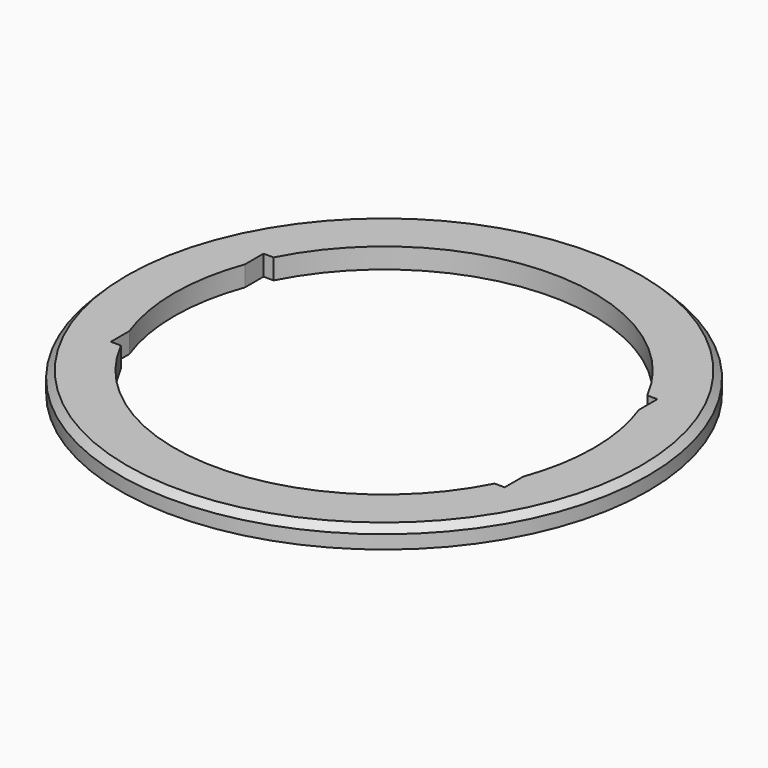
from build123d import *

# Parameters (mm, degrees)
BOX878_W                     = 2.2
BOX878_H                     = 20
BOX878_DEPTH                 = 28.2
BOX877_W                     = 2.2
BOX877_H                     = 20
BOX877_DEPTH                 = 28.2
COMPOUND1139_PLACEMENT_ANGLE = 90
CYLINDER2555_R               = 31
CYLINDER2555_DEPTH           = 34
CYLINDER2556_R               = 39
CYLINDER2556_DEPTH           = 3
CHAMFER090_SIZE              = 1


with BuildPart() as krychle877:
    # Box878 → Box878 (new body)
    with BuildSketch(Plane(origin=(43.9, -111, -4.1), x_dir=(1, 0, 0), z_dir=(0, 0, 1))):
        with Locations((1.1, 10)):
            Rectangle(BOX878_W, BOX878_H)
    extrude(amount=BOX878_DEPTH)


with BuildPart() as compound1139:
    # Box877 → Box877 (new body)
    with BuildSketch(Plane(origin=(-12.1, -111, -4.1), x_dir=(1, 0, 0), z_dir=(0, 0, 1))):
        with Locations((1.1, 10)):
            Rectangle(BOX877_W, BOX877_H)
    extrude(amount=BOX877_DEPTH)

    # Compound1139: union Krychle877
    add(krychle877.part)


with BuildPart() as compound1139_1:
    # Compound1139 placement: moved
    add(compound1139.part.moved(Location((-17, 10, 97))).rotate(Axis((-17, 10, 97), (1, 0, 0)), COMPOUND1139_PLACEMENT_ANGLE))


with BuildPart() as obj1:
    # Cylinder2555 → Cylinder2555 (new body)
    with BuildSketch(Plane.XY.offset(-21)):
        Circle(CYLINDER2555_R)
    extrude(amount=CYLINDER2555_DEPTH)


with BuildPart() as cut965:
    # Cylinder2556 → Cylinder2556 (new body)
    with BuildSketch(Plane.XY):
        Circle(CYLINDER2556_R)
    extrude(amount=CYLINDER2556_DEPTH)

    # Cut948: cut obj1
    add(obj1.part, mode=Mode.SUBTRACT)

    # Chamfer090
    chamfer090_edges = [cut965.edges().sort_by_distance(p)[0] for p in [
        (-39, 0, 3),
    ]]
    chamfer(chamfer090_edges, length=CHAMFER090_SIZE)


with BuildPart() as cut965_1:
    # Chamfer090 placement: moved
    add(cut965.part.moved(Location((0, 0, -8))))

    # Cut965: cut Compound1139
    add(compound1139_1.part, mode=Mode.SUBTRACT)


solid = cut965_1.part
